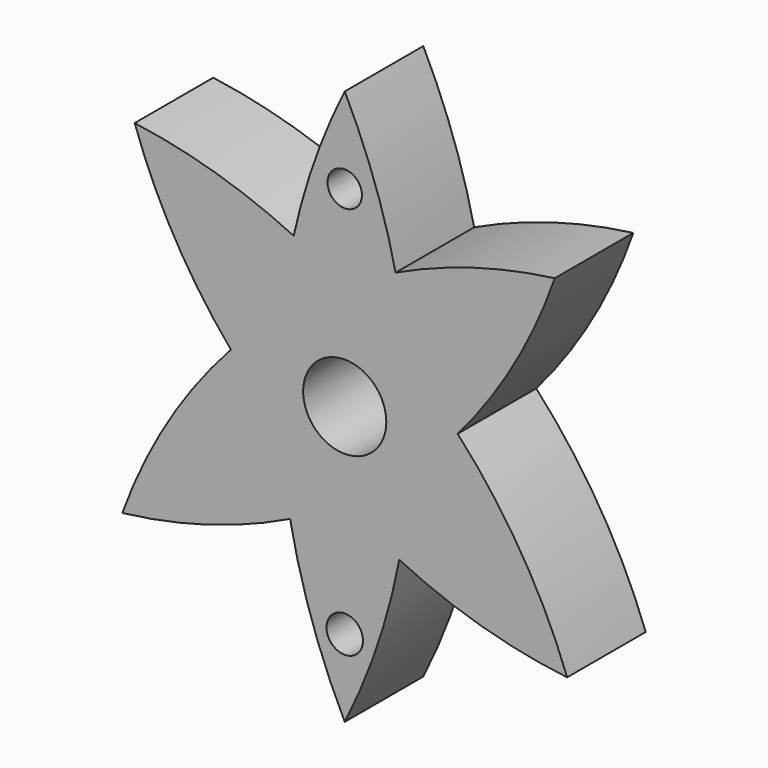
from build123d import *

# Parameters (mm, degrees)
F0_R     = 4.4487015319
F0_R_2   = 10.7530048188
F0_R_3   = 4.7180127793
F1_DEPTH = 25.4


with BuildPart() as f1:
    # F0 (on Front) → F1 (new body)
    with BuildSketch(Plane.XZ):
        with BuildLine():
            ThreePointArc((-29.4424401282, 3.4015260978), (-23.0262753535, 9.9406396762), (-16.1905688202, 16.0398439684))
            ThreePointArc((-16.1905688202, 16.0398439684), (-14.9730955589, 25.3716641264), (-13.2094991853, 34.6158426424))
            ThreePointArc((-13.2094991853, 34.6158426424), (-33.2950660075, 42.3616642817), (-54.3334142599, 46.9240814309))
            ThreePointArc((-54.3334142599, 46.9240814309), (-43.9313490235, 23.9941508784), (-29.4424401282, 3.4015260978))
        make_face()
        with BuildLine():
            ThreePointArc((-0.2127594199, 27.5427215846), (6.3768354794, 31.3598309723), (13.1668725149, 34.8077987896))
            ThreePointArc((13.1668725149, 34.8077987896), (7.721142089, 53.7045907434), (0, 71.7912900237))
            ThreePointArc((0, 71.7912900237), (-7.7540886954, 53.6119593723), (-13.2094991853, 34.6158426424))
            ThreePointArc((-13.2094991853, 34.6158426424), (-6.6172580099, 31.2517690189), (-0.2127594199, 27.5427215846))
        make_face()
        with Locations((0, 49.6207140386)):
            Circle(F0_R, mode=Mode.SUBTRACT)
        with BuildLine():
            ThreePointArc((13.1668725149, 34.8077987896), (14.9841600378, 25.3026214649), (16.223923099, 15.7050218969))
            ThreePointArc((16.223923099, 15.7050218969), (22.9196518716, 9.724571518), (29.2167284259, 3.3257124477))
            ThreePointArc((29.2167284259, 3.3257124477), (43.8176697051, 23.9481716961), (54.3334142599, 46.9240814309))
            ThreePointArc((54.3334142599, 46.9240814309), (33.2765171586, 42.4751427427), (13.1668725149, 34.8077987896))
        make_face()
        with BuildLine():
            ThreePointArc((-0.1224819877, -22.2551113905), (8.5491454913, -16.1687348266), (16.7184581773, -9.4231115752))
            ThreePointArc((16.7184581773, -9.4231115752), (16.9649715432, 3.1506730326), (16.223923099, 15.7050218969))
            ThreePointArc((16.223923099, 15.7050218969), (8.2207799897, 21.9226750358), (-0.2127594199, 27.5427215846))
            ThreePointArc((-0.2127594199, 27.5427215846), (-8.4069648764, 22.0764511026), (-16.1905688202, 16.0398439684))
            ThreePointArc((-16.1905688202, 16.0398439684), (-16.9635494943, 3.2221192601), (-16.7069505399, -9.6163277953))
            ThreePointArc((-16.7069505399, -9.6163277953), (-8.6597139653, -16.2572027994), (-0.1224819877, -22.2551113905))
        make_face()
        Circle(F0_R_2, mode=Mode.SUBTRACT)
        with BuildLine():
            ThreePointArc((-13.2094991853, 34.6158426424), (-14.9730955589, 25.3716641264), (-16.1905688202, 16.0398439684))
            ThreePointArc((-16.1905688202, 16.0398439684), (-8.4069648764, 22.0764511026), (-0.2127594199, 27.5427215846))
            ThreePointArc((-0.2127594199, 27.5427215846), (-6.6172580099, 31.2517690189), (-13.2094991853, 34.6158426424))
        make_face()
        with BuildLine():
            ThreePointArc((-0.2127594199, 27.5427215846), (8.2207799897, 21.9226750358), (16.223923099, 15.7050218969))
            ThreePointArc((16.223923099, 15.7050218969), (14.9841600378, 25.3026214649), (13.1668725149, 34.8077987896))
            ThreePointArc((13.1668725149, 34.8077987896), (6.3768354794, 31.3598309723), (-0.2127594199, 27.5427215846))
        make_face()
        with BuildLine():
            ThreePointArc((-57.542737113, -42.9281111723), (-35.2995419272, -38.3673220516), (-14.1309868657, -30.1543563216))
            ThreePointArc((-14.1309868657, -30.1543563216), (-15.7511847912, -19.9270099612), (-16.7069505399, -9.6163277953))
            ThreePointArc((-16.7069505399, -9.6163277953), (-23.2950130239, -3.3229397285), (-29.4424401282, 3.4015260978))
            ThreePointArc((-29.4424401282, 3.4015260978), (-45.7877840818, -18.3711885214), (-57.542737113, -42.9281111723))
        make_face()
        with BuildLine():
            ThreePointArc((-29.4424401282, 3.4015260978), (-23.2950130239, -3.3229397285), (-16.7069505399, -9.6163277953))
            ThreePointArc((-16.7069505399, -9.6163277953), (-16.9635494943, 3.2221192601), (-16.1905688202, 16.0398439684))
            ThreePointArc((-16.1905688202, 16.0398439684), (-23.0262753535, 9.9406396762), (-29.4424401282, 3.4015260978))
        make_face()
        with BuildLine():
            ThreePointArc((-16.7069505399, -9.6163277953), (-15.7511847912, -19.9270099612), (-14.1309868657, -30.1543563216))
            ThreePointArc((-14.1309868657, -30.1543563216), (-7.0093726235, -26.4128630389), (-0.1224819877, -22.2551113905))
            ThreePointArc((-0.1224819877, -22.2551113905), (-8.6597139653, -16.2572027994), (-16.7069505399, -9.6163277953))
        make_face()
        with BuildLine():
            ThreePointArc((-14.1309868657, -30.1543563216), (-8.5014831961, -51.4601778042), (0, -71.7912900237))
            ThreePointArc((0, -71.7912900237), (8.482288282, -51.5167009706), (14.1084600409, -30.2715987794))
            ThreePointArc((14.1084600409, -30.2715987794), (6.8713335487, -26.4793190065), (-0.1224819877, -22.2551113905))
            ThreePointArc((-0.1224819877, -22.2551113905), (-7.0093726235, -26.4128630389), (-14.1309868657, -30.1543563216))
        make_face()
        with Locations((0, -51.7978556454)):
            Circle(F0_R_3, mode=Mode.SUBTRACT)
        with BuildLine():
            ThreePointArc((16.7184581773, -9.4231115752), (15.7557958243, -19.8902119169), (14.1084600409, -30.2715987794))
            ThreePointArc((14.1084600409, -30.2715987794), (35.2902850673, -38.4369294065), (57.542737113, -42.9281111723))
            ThreePointArc((57.542737113, -42.9281111723), (45.6499453561, -18.4109129726), (29.2167284259, 3.3257124477))
            ThreePointArc((29.2167284259, 3.3257124477), (23.1779099268, -3.2548828175), (16.7184581773, -9.4231115752))
        make_face()
        with BuildLine():
            ThreePointArc((16.223923099, 15.7050218969), (16.9649715432, 3.1506730326), (16.7184581773, -9.4231115752))
            ThreePointArc((16.7184581773, -9.4231115752), (23.1779099268, -3.2548828175), (29.2167284259, 3.3257124477))
            ThreePointArc((29.2167284259, 3.3257124477), (22.9196518716, 9.724571518), (16.223923099, 15.7050218969))
        make_face()
        with BuildLine():
            ThreePointArc((-0.1224819877, -22.2551113905), (6.8713335487, -26.4793190065), (14.1084600409, -30.2715987794))
            ThreePointArc((14.1084600409, -30.2715987794), (15.7557958243, -19.8902119169), (16.7184581773, -9.4231115752))
            ThreePointArc((16.7184581773, -9.4231115752), (8.5491454913, -16.1687348266), (-0.1224819877, -22.2551113905))
        make_face()
    extrude(amount=F1_DEPTH)


solid = f1.part
